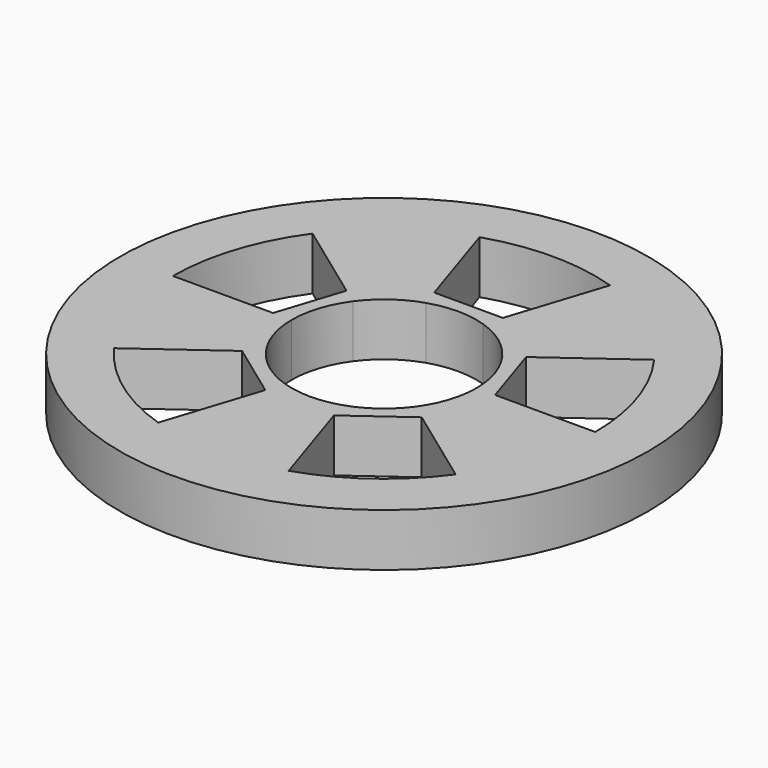
from build123d import *

# Parameters (mm, degrees)
F0_R     = 31.75
F1_DEPTH = 6.35


with BuildPart() as f1:
    # F0 (on Top) → F1 (new body)
    with BuildSketch(Plane.XY):
        Circle(F0_R)
        with BuildLine():
            Line((-10.803265, 7.849032), (-4.12648, 12.7))
            Line((-4.12648, 12.7), (-7.849032, 24.156836))
            ThreePointArc((-7.849032, 24.156836), (0, 25.4), (7.849032, 24.156836))
            Line((7.849032, 24.156836), (4.12648, 12.7))
            Line((4.12648, 12.7), (10.803265, 7.849032))
            Line((10.803265, 7.849032), (20.549032, 14.929745))
            ThreePointArc((20.549032, 14.929745), (24.156836, 7.849032), (25.4, 0))
            Line((25.4, 0), (13.35357, 0))
            Line((13.35357, 0), (10.803265, -7.849032))
            Line((10.803265, -7.849032), (20.549032, -14.929745))
            ThreePointArc((20.549032, -14.929745), (14.929745, -20.549032), (7.849032, -24.156836))
            Line((7.849032, -24.156836), (4.12648, -12.7))
            Line((4.12648, -12.7), (-4.12648, -12.7))
            Line((-4.12648, -12.7), (-7.849032, -24.156836))
            ThreePointArc((-7.849032, -24.156836), (-14.929745, -20.549032), (-20.549032, -14.929745))
            Line((-20.549032, -14.929745), (-10.803265, -7.849032))
            Line((-10.803265, -7.849032), (-13.35357, 0))
            Line((-13.35357, 0), (-25.4, 0))
            ThreePointArc((-25.4, 0), (-24.156836, 7.849032), (-20.549032, 14.929745))
            Line((-20.549032, 14.929745), (-10.803265, 7.849032))
        make_face(mode=Mode.SUBTRACT)
        with BuildLine():
            Line((4.12648, 12.7), (-4.12648, 12.7))
            Line((-4.12648, 12.7), (-3.433951, 10.568616))
            ThreePointArc((-3.433951, 10.568616), (0, 11.1125), (3.433951, 10.568616))
            Line((3.433951, 10.568616), (4.12648, 12.7))
        make_face()
        with BuildLine():
            Line((10.803265, 7.849032), (4.12648, 12.7))
            Line((4.12648, 12.7), (3.433951, 10.568616))
            ThreePointArc((3.433951, 10.568616), (6.531764, 8.990201), (8.990201, 6.531764))
            Line((8.990201, 6.531764), (10.803265, 7.849032))
        make_face()
        with BuildLine():
            Line((13.35357, 0), (10.803265, 7.849032))
            Line((10.803265, 7.849032), (8.990201, 6.531764))
            ThreePointArc((8.990201, 6.531764), (10.568616, 3.433951), (11.1125, 0))
            Line((11.1125, 0), (13.35357, 0))
        make_face()
        with BuildLine():
            Line((10.803265, -7.849032), (13.35357, 0))
            Line((13.35357, 0), (11.1125, 0))
            ThreePointArc((11.1125, 0), (10.568616, -3.433951), (8.990201, -6.531764))
            Line((8.990201, -6.531764), (10.803265, -7.849032))
        make_face()
        with BuildLine():
            Line((10.803265, -7.849032), (8.990201, -6.531764))
            ThreePointArc((8.990201, -6.531764), (6.531764, -8.990201), (3.433951, -10.568616))
            Line((3.433951, -10.568616), (4.12648, -12.7))
            Line((4.12648, -12.7), (10.803265, -7.849032))
        make_face()
        with BuildLine():
            Line((4.12648, -12.7), (3.433951, -10.568616))
            ThreePointArc((3.433951, -10.568616), (0, -11.1125), (-3.433951, -10.568616))
            Line((-3.433951, -10.568616), (-4.12648, -12.7))
            Line((-4.12648, -12.7), (4.12648, -12.7))
        make_face()
        with BuildLine():
            Line((-8.990201, -6.531764), (-10.803265, -7.849032))
            Line((-10.803265, -7.849032), (-4.12648, -12.7))
            Line((-4.12648, -12.7), (-3.433951, -10.568616))
            ThreePointArc((-3.433951, -10.568616), (-6.531764, -8.990201), (-8.990201, -6.531764))
        make_face()
        with BuildLine():
            Line((-11.1125, 0), (-13.35357, 0))
            Line((-13.35357, 0), (-10.803265, -7.849032))
            Line((-10.803265, -7.849032), (-8.990201, -6.531764))
            ThreePointArc((-8.990201, -6.531764), (-10.568616, -3.433951), (-11.1125, 0))
        make_face()
        with BuildLine():
            Line((-8.990201, 6.531764), (-10.803265, 7.849032))
            Line((-10.803265, 7.849032), (-13.35357, 0))
            Line((-13.35357, 0), (-11.1125, 0))
            ThreePointArc((-11.1125, 0), (-10.568616, 3.433951), (-8.990201, 6.531764))
        make_face()
        with BuildLine():
            Line((-3.433951, 10.568616), (-4.12648, 12.7))
            Line((-4.12648, 12.7), (-10.803265, 7.849032))
            Line((-10.803265, 7.849032), (-8.990201, 6.531764))
            ThreePointArc((-8.990201, 6.531764), (-6.531764, 8.990201), (-3.433951, 10.568616))
        make_face()
    extrude(amount=F1_DEPTH)


solid = f1.part
